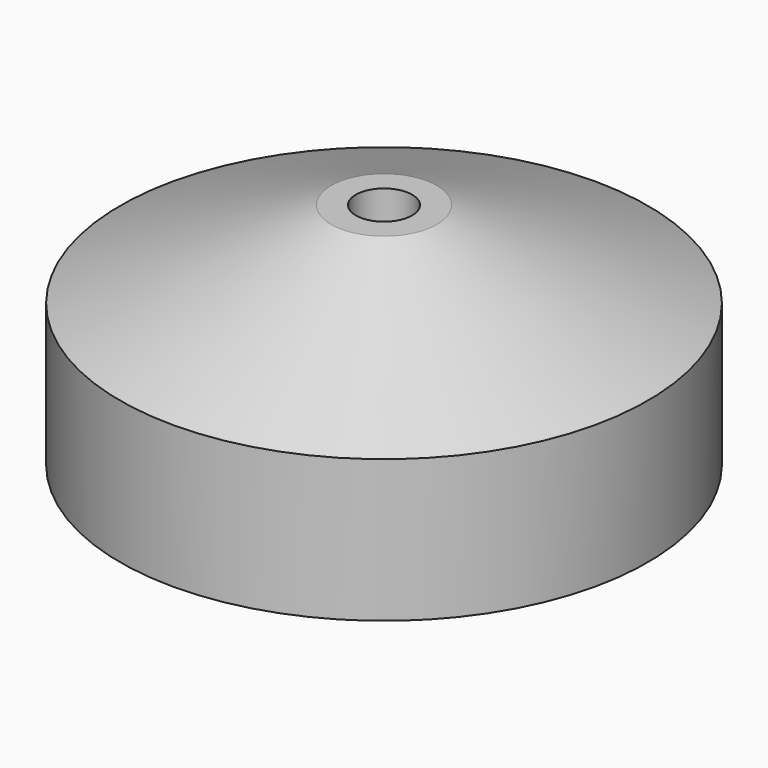
from build123d import *

# Parameters (mm, degrees)
SKETCH_W        = 12
SKETCH_H        = 12
POCKET_DEPTH    = 6
POCKET001_DEPTH = 3
CHAMFER_SIZE    = 1
CHAMFER001_SIZE = 1


with BuildPart() as part:
    # Sketch002 → Revolution (revolve)
    with BuildSketch(Plane.YZ):
        Polygon((1.6, 13), (1.6, 0), (15, 0), (15, 8.09067), (3, 13), align=None)
    revolve(axis=Axis((0, 0, 0), (0, 0, 1)))

    # Sketch (on Face2 of Revolution) → Pocket (cut)
    with BuildSketch(Plane.YX):
        Rectangle(SKETCH_W, SKETCH_H)
    extrude(amount=-POCKET_DEPTH, mode=Mode.SUBTRACT)

    # Sketch003 (on Face2 of Pocket) → Pocket001 (cut)
    with BuildSketch(Plane.YX.offset(-6)):
        Polygon((3.1, 0), (1.55, 2.684679), (-1.55, 2.684679), (-3.1, 0), (-1.55, -2.684679), (1.55, -2.684679), align=None)
    extrude(amount=-POCKET001_DEPTH, mode=Mode.SUBTRACT)

    # Chamfer
    chamfer_edges = [part.edges().sort_by_distance(p)[0] for p in [
        (0, -6, 6),
        (0, 6, 6),
        (-6, 0, 6),
        (6, 0, 6),
    ]]
    chamfer(chamfer_edges, length=CHAMFER_SIZE)

    # Chamfer001
    chamfer001_edges = [part.edges().sort_by_distance(p)[0] for p in [
        (0, -1.6, 9),
    ]]
    chamfer(chamfer001_edges, length=CHAMFER001_SIZE)


solid = part.part
